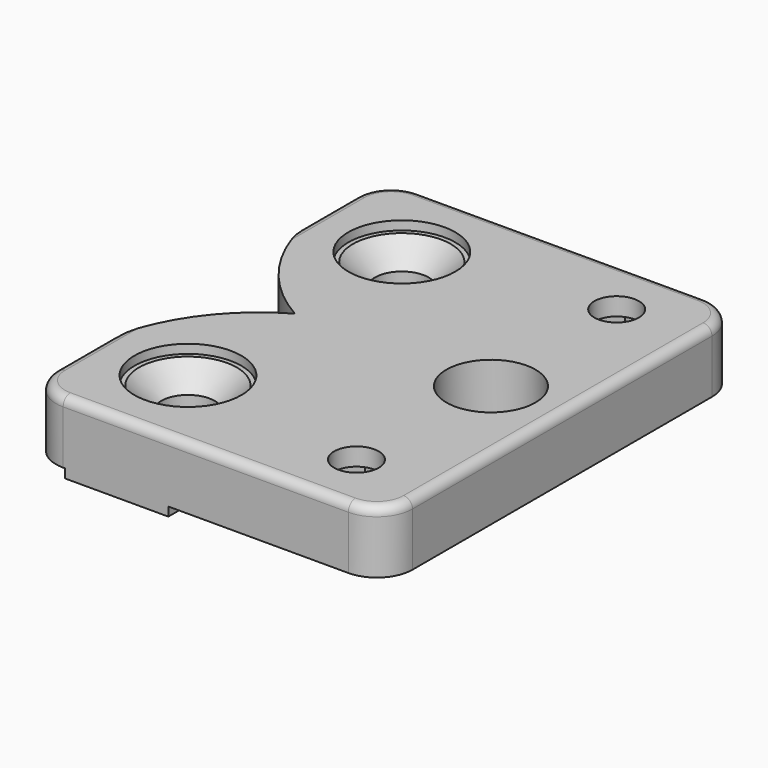
from build123d import *

# Parameters (mm, degrees)
SKETCH_W        = 40
SKETCH_H        = 50
PAD_DEPTH       = 7
SKETCH001_R     = 2.5
SKETCH001_R_2   = 5
POCKET_DEPTH    = 7.001
POCKET001_DEPTH = 5
SKETCH003_W     = 11.6
SKETCH003_H     = 1
PAD001_DEPTH    = 50
SKETCH004_R     = 3
POCKET002_DEPTH = 8.001
SKETCH005_R     = 6
POCKET003_DEPTH = 1
CHAMFER_SIZE    = 2.49
FILLET_R        = 4
POCKET004_DEPTH = 8.001
FILLET001_R     = 1


with BuildPart() as part:
    # Sketch → Pad (new body)
    with BuildSketch(Plane.XY):
        with Locations((10, 0)):
            Rectangle(SKETCH_W, SKETCH_H)
    extrude(amount=PAD_DEPTH)

    # Sketch001 (on Face6 of Pad) → Pocket (cut, through all)
    with BuildSketch(Plane.XY.offset(7)):
        with Locations((21.50647, 18.25)):
            Circle(SKETCH001_R)
        with Locations((21.50647, -18.25)):
            Circle(SKETCH001_R)
        with Locations((22, 0)):
            Circle(SKETCH001_R_2)
    extrude(amount=-POCKET_DEPTH, mode=Mode.SUBTRACT)

    # Sketch002 (on Face4 of Pocket) → Pocket001 (cut)
    with BuildSketch(Plane(origin=(0, 0, 0), x_dir=(1, 0, 0), z_dir=(0, 0, -1))):
        Polygon((19.052731, 14), (23.960208, 14), (26.413947, 18.25), (23.960208, 22.5), (19.052731, 22.5), (16.598992, 18.25), align=None)
        Polygon((19.052731, -22.5), (23.960208, -22.5), (26.413947, -18.25), (23.960208, -14), (19.052731, -14), (16.598992, -18.25), align=None)
    extrude(amount=-POCKET001_DEPTH, mode=Mode.SUBTRACT)

    # Sketch003 (on Face1 of Pocket001) → Pad001 (join)
    with BuildSketch(Plane(origin=(0, 25, 0), x_dir=(-1, 0, 0), z_dir=(0, 1, 0))):
        with Locations((0, -0.5)):
            Rectangle(SKETCH003_W, SKETCH003_H)
    extrude(amount=-PAD001_DEPTH)

    # Sketch004 (on Face5 of Pad001) → Pocket002 (cut, through all)
    with BuildSketch(Plane.XY.offset(7)):
        with Locations((0, 15)):
            Circle(SKETCH004_R)
        with Locations((0, -15)):
            Circle(SKETCH004_R)
    extrude(amount=-POCKET002_DEPTH, mode=Mode.SUBTRACT)

    # Sketch005 (on Face5 of Pocket002) → Pocket003 (cut)
    with BuildSketch(Plane.XY.offset(7)):
        with Locations((0, 15)):
            Circle(SKETCH005_R)
        with Locations((0, -15)):
            Circle(SKETCH005_R)
    extrude(amount=-POCKET003_DEPTH, mode=Mode.SUBTRACT)

    # Chamfer
    chamfer_edges = [part.edges().sort_by_distance(p)[0] for p in [
        (-3, -15, 6),
        (-3, 15, 6),
    ]]
    chamfer(chamfer_edges, length=CHAMFER_SIZE)

    # Fillet
    fillet_edges = [part.edges().sort_by_distance(p)[0] for p in [
        (-10, -25, 3.5),
        (30, -25, 3.5),
        (30, 25, 3.5),
        (-10, 25, 3.5),
    ]]
    fillet(fillet_edges, radius=FILLET_R)

    # Sketch006 (on Face1 of Fillet) → Pocket004 (cut, through all)
    with BuildSketch(Plane.XY.offset(7)):
        with BuildLine():
            ThreePointArc((-10, 15), (-6.785937, 6.309375), (0, 0))
            ThreePointArc((0, 0), (-6.785937, -6.309375), (-10, -15))
            Line((-10, 15), (-10, -15))
        make_face()
    extrude(amount=-POCKET004_DEPTH, mode=Mode.SUBTRACT)

    # Fillet001
    fillet001_edges = [part.edges().sort_by_distance(p)[0] for p in [
        (30, 0, 7),
    ]]
    fillet(fillet001_edges, radius=FILLET001_R)


solid = part.part
